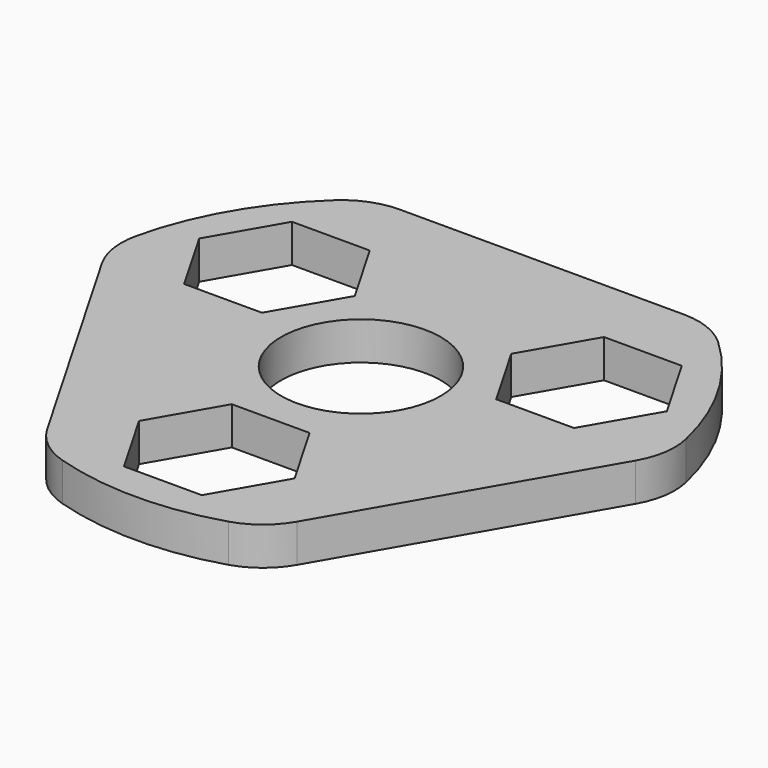
from build123d import *

# Parameters (mm, degrees)
F0_R     = 10.9
F1_DEPTH = 5.2
F2_R     = 10


with BuildPart() as f1:
    # F0 (on Top) → F1 (new body)
    with BuildSketch(Plane.XY):
        with BuildLine():
            Line((15.263414, -35.34513), (38.241487, 4.454061))
            ThreePointArc((38.241487, 4.454061), (33.341978, 19.25), (22.978074, 30.891069))
            Line((22.978074, 30.891069), (-22.978074, 30.891069))
            ThreePointArc((-22.978074, 30.891069), (-33.341978, 19.25), (-38.241487, 4.454061))
            Line((-38.241487, 4.454061), (-15.263414, -35.34513))
            ThreePointArc((-15.263414, -35.34513), (0, -38.5), (15.263414, -35.34513))
        make_face()
        Polygon((-5.311622, -15.4), (5.311622, -15.4), (10.623245, -24.6), (5.311622, -33.8), (-5.311622, -33.8), (-10.623245, -24.6), align=None, mode=Mode.SUBTRACT)
        Polygon((-26.615847, 3.1), (-31.92747, 12.3), (-26.615847, 21.5), (-15.992602, 21.5), (-10.68098, 12.3), (-15.992602, 3.1), align=None, mode=Mode.SUBTRACT)
        Circle(F0_R, mode=Mode.SUBTRACT)
        Polygon((15.992602, 21.5), (26.615847, 21.5), (31.92747, 12.3), (26.615847, 3.1), (15.992602, 3.1), (10.68098, 12.3), align=None, mode=Mode.SUBTRACT)
    extrude(amount=F1_DEPTH)

    # F2
    f2_edges = [f1.edges().sort_by_distance(p)[0] for p in [
        (-38.241487, 4.454061, 2.6),
        (-22.978074, 30.891069, 2.6),
        (22.978074, 30.891069, 2.6),
        (38.241487, 4.454061, 2.6),
        (15.263414, -35.34513, 2.6),
        (-15.263414, -35.34513, 2.6),
    ]]
    fillet(f2_edges, radius=F2_R)


solid = f1.part
